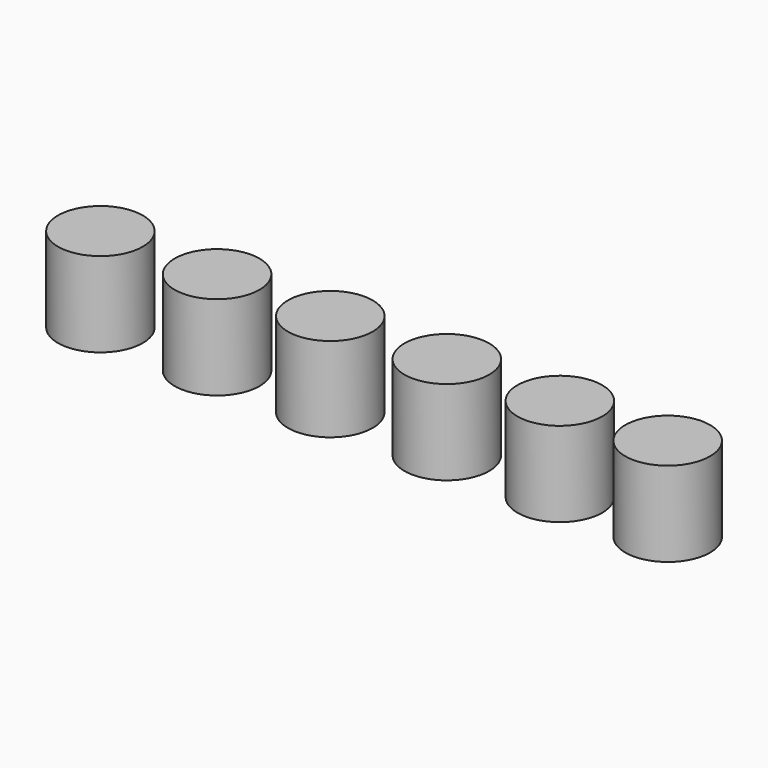
from build123d import *

# Parameters (mm, degrees)
SKETCH_R     = 0.5
PAD_DEPTH    = 1
SKETCH001_R  = 0.5
PAD001_DEPTH = 1
SKETCH002_R  = 0.5
PAD002_DEPTH = 1
SKETCH003_R  = 0.5
PAD003_DEPTH = 1
SKETCH004_R  = 0.5
PAD004_DEPTH = 1
SKETCH005_R  = 0.5
PAD005_DEPTH = 1


with BuildPart() as body:
    # Sketch → Pad (new body)
    with BuildSketch(Plane.XY):
        Circle(SKETCH_R)
    extrude(amount=PAD_DEPTH)


with BuildPart() as body001:
    # Sketch001 → Pad001 (new body)
    with BuildSketch(Plane.XY):
        Circle(SKETCH001_R)
    extrude(amount=PAD001_DEPTH)


with BuildPart() as body001_1:
    # Body001 placement: moved
    add(body001.part.moved(Location((1.376, 0, 0))))


with BuildPart() as body002:
    # Sketch002 → Pad002 (new body)
    with BuildSketch(Plane.XY):
        Circle(SKETCH002_R)
    extrude(amount=PAD002_DEPTH)


with BuildPart() as body002_1:
    # Body002 placement: moved
    add(body002.part.moved(Location((2.711, 0, 0))))


with BuildPart() as body003:
    # Sketch003 → Pad003 (new body)
    with BuildSketch(Plane.XY):
        Circle(SKETCH003_R)
    extrude(amount=PAD003_DEPTH)


with BuildPart() as body003_1:
    # Body003 placement: moved
    add(body003.part.moved(Location((4.085, 0, 0))))


with BuildPart() as body004:
    # Sketch004 → Pad004 (new body)
    with BuildSketch(Plane.XY):
        Circle(SKETCH004_R)
    extrude(amount=PAD004_DEPTH)


with BuildPart() as body004_1:
    # Body004 placement: moved
    add(body004.part.moved(Location((5.418, 0, 0))))


with BuildPart() as body005:
    # Sketch005 → Pad005 (new body)
    with BuildSketch(Plane.XY):
        Circle(SKETCH005_R)
    extrude(amount=PAD005_DEPTH)


with BuildPart() as body005_1:
    # Body005 placement: moved
    add(body005.part.moved(Location((6.69, 0, 0))))


solid = Compound([body.part, body001_1.part, body002_1.part, body003_1.part, body004_1.part, body005_1.part])
